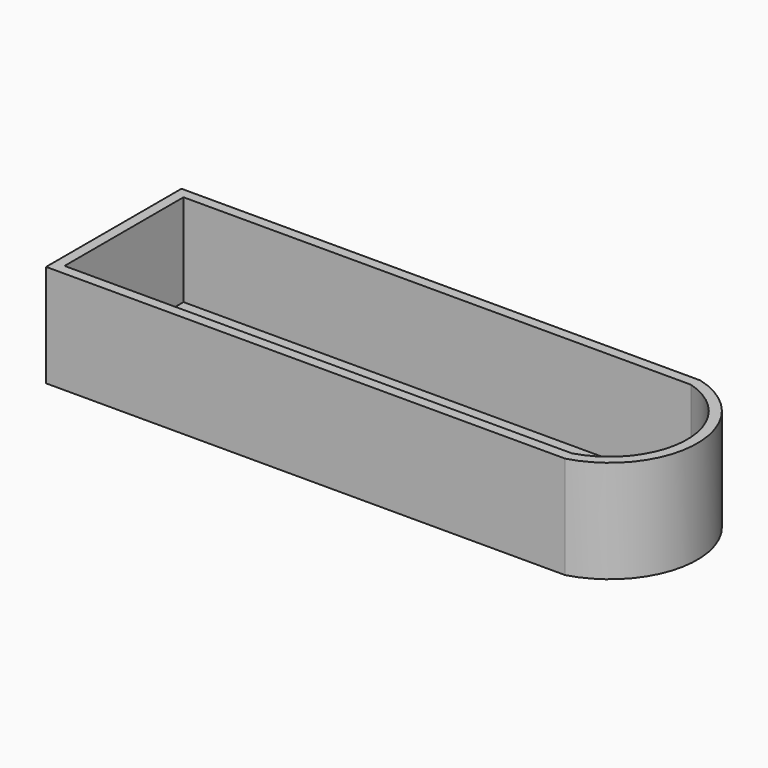
from build123d import *

# Parameters (mm, degrees)
F0_W     = 128.5240054131
F0_H     = 41.9100010768
F1_DEPTH = 25.4
F2_T     = -2.54


with BuildPart() as f1:
    # F0 (on Top) → F1 (new body)
    with BuildSketch(Plane.XY):
        with Locations((1.5240013599, 28.8263554685)):
            Rectangle(F0_W, F0_H)
        with BuildLine():
            ThreePointArc((65.7860040665, 7.8713549301), (81.7842385584, 28.8263554685), (65.7860040665, 49.7813560069))
            Line((65.7860040665, 49.7813560069), (65.7860040665, 7.8713549301))
        make_face()
    extrude(amount=F1_DEPTH)

    # F2
    f2_openings = [f1.faces().sort_by_distance(p)[0] for p in [
        (7.497543, 28.826355, 25.4),
    ]]
    offset(amount=F2_T, openings=f2_openings)


solid = f1.part
